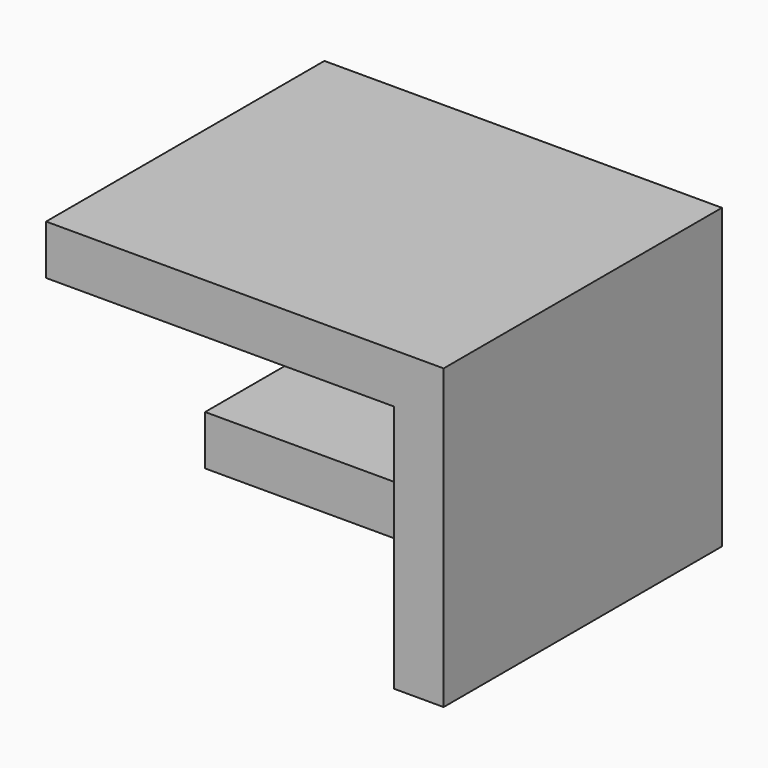
from build123d import *

# Parameters (mm, degrees)
F0_W     = 40
F0_H     = 30
F1_DEPTH = 5
F2_R     = 8
F3_DEPTH = 25
F4_W     = 35
F4_H     = 5
F5_DEPTH = 30
F6_W     = 35
F6_H     = 5
F7_DEPTH = 10


with BuildPart() as f1:
    # F0 (on Front) → F1 (new body)
    with BuildSketch(Plane.XZ):
        Rectangle(F0_W, F0_H)
    extrude(amount=F1_DEPTH)

    # F2 (on face) → F3 (cut)
    with BuildSketch(Plane.XZ.offset(5)):
        Circle(F2_R)
    extrude(amount=-F3_DEPTH, mode=Mode.SUBTRACT)

    # F4 (on face) → F5 (join)
    with BuildSketch(Plane.XZ.offset(5)):
        Polygon((15, -15), (20, -15), (20, 15), (15, 15), (15, 10), align=None)
        with Locations((-2.5, 12.5)):
            Rectangle(F4_W, F4_H)
    extrude(amount=F5_DEPTH)

    # F6 (on face) → F7 (join)
    with BuildSketch(Plane.XZ.offset(5)):
        with Locations((-2.5, -12.5)):
            Rectangle(F6_W, F6_H)
    extrude(amount=F7_DEPTH)


solid = f1.part
